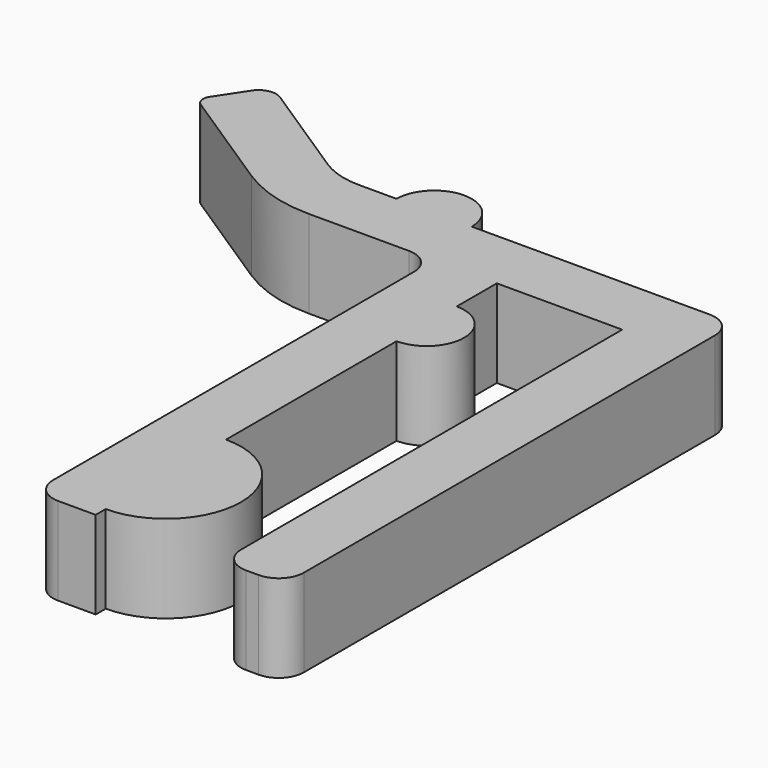
from build123d import *

# Parameters (mm, degrees)
PAD_DEPTH    = 3.5
PAD001_DEPTH = 3.5
FILLET_R     = 1
FILLET001_R  = 1


with BuildPart() as part:
    # Sketch → Pad (new body)
    with BuildSketch(Plane.XY):
        with BuildLine():
            Line((-2.5, 0), (2.5, 0))
            Line((2.5, 0), (2.5, -20))
            Line((2.5, -20), (5, -20))
            Line((5, 2.5), (5, -20))
            Line((-5, 2.5), (5, 2.5))
            Line((-5, -20), (-5, 2.5))
            Line((-5, -20), (-2.5, -20))
            Line((-2.5, -20), (-2.5, -19.5))
            ThreePointArc((-2.5, -19.5), (0.5, -16.5), (-2.5, -13.5))
            Line((-2.5, -13.5), (-2.5, -5))
            ThreePointArc((-2.5, -5), (-1, -3.5), (-2.5, -2))
            Line((-2.5, -2), (-2.5, 0))
        make_face()
    extrude(amount=PAD_DEPTH)

    # Sketch001 → Pad001 (join)
    with BuildSketch(Plane.XY):
        with BuildLine():
            Line((-10, 0), (0, 0))
            Line((0, 0), (0, 2.5))
            Line((0, 2.5), (-5.5, 2.5))
            ThreePointArc((-5.5, 2.5), (-7, 4), (-8.5, 2.5))
            Line((-8.5, 2.5), (-9.999981, 2.5))
            ThreePointArc((-11.640701, 2.988407), (-10.855917, 2.62469), (-9.999981, 2.5))
            Line((-11.640701, 2.988407), (-15.61717, 5.586038))
            ThreePointArc((-15.61717, 5.586038), (-16.142156, 5.685413), (-16.584319, 5.38545))
            Line((-17.34717, 4.229013), (-16.584319, 5.38545))
            ThreePointArc((-17.34717, 4.229013), (-17.407235, 3.915539), (-17.227457, 3.651808))
            Line((-13.007951, 0.895412), (-17.227457, 3.651808))
            ThreePointArc((-13.007951, 0.895412), (-11.569198, 0.228604), (-10, 0))
        make_face()
    extrude(amount=PAD001_DEPTH)

    # Fillet
    fillet_edges = [part.edges().sort_by_distance(p)[0] for p in [
        (-5, 0, 1.75),
    ]]
    fillet(fillet_edges, radius=FILLET_R)

    # Fillet001
    fillet001_edges = [part.edges().sort_by_distance(p)[0] for p in [
        (5, 2.5, 1.75),
        (5, -20, 1.75),
        (2.5, -20, 1.75),
        (-5, -20, 1.75),
    ]]
    fillet(fillet001_edges, radius=FILLET001_R)


solid = part.part
